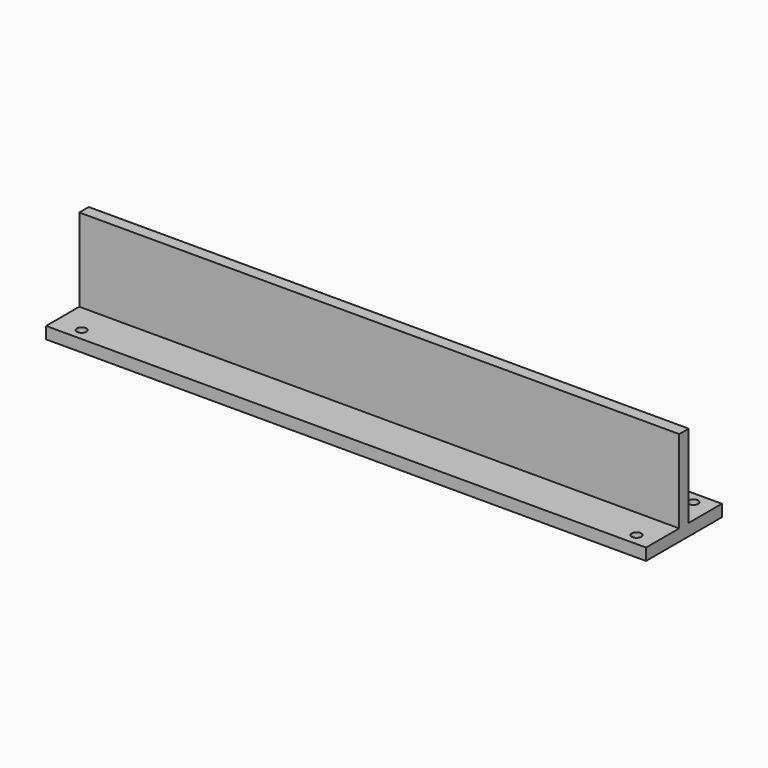
from build123d import *

# Parameters (mm, degrees)
F0_W     = 253
F0_H     = 17.5
F1_DEPTH = 5
F2_D     = 4
F0_H_2   = 5
F3_DEPTH = 40
F4_DEPTH = 5
F5_D     = 4


with BuildPart() as f1:
    # F0 (on Top) → F1 (new body)
    with BuildSketch(Plane.XY):
        with Locations((0.5246251822, -26.25)):
            Rectangle(F0_W, F0_H)
    extrude(amount=F1_DEPTH)

    # F2 (through all)
    with Locations(Plane(origin=(0, 0, 0), x_dir=(1, 0, 0), z_dir=(0, 0, -1))):
        with Locations((-114.9753748178, 0), (-114.9753748178, 30), (119.0246251822, 30), (119.0246251822, 0)):
            Hole(F2_D / 2)

    # F0 (on Top) → F3 (join)
    with BuildSketch(Plane.XY):
        with Locations((0.5246251822, -15)):
            Rectangle(F0_W, F0_H_2)
    extrude(amount=F3_DEPTH)

    # F0 (on Top) → F4 (join)
    with BuildSketch(Plane.XY):
        with Locations((0.5246251822, -3.75)):
            Rectangle(F0_W, F0_H)
    extrude(amount=F4_DEPTH)

    # F5 (through all)
    with Locations(Plane(origin=(0, 0, 0), x_dir=(1, 0, 0), z_dir=(0, 0, -1))):
        with Locations((-114.9753748178, 0), (119.0246251822, 0)):
            Hole(F5_D / 2)


solid = f1.part
